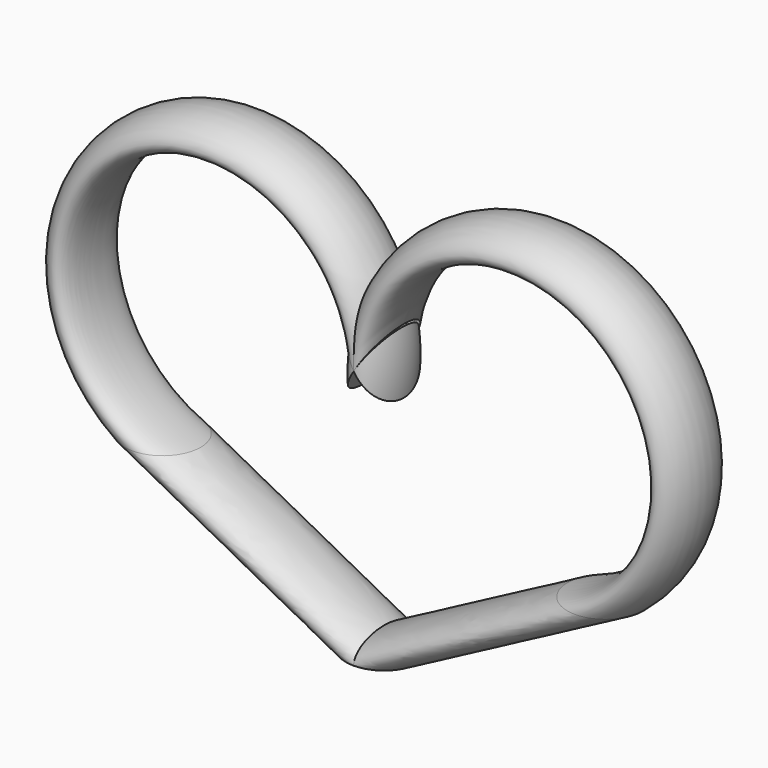
from build123d import *

# Parameters (mm, degrees)
F1_R = 8.6396585437


with BuildPart() as f2:
    # F2: sweep along a path in F0
    with BuildLine(Plane.XZ) as f2_path:
        Line((0, 0), (-50.3327995539, 26.6418438405))
        ThreePointArc((-50.3327995539, 26.6418438405), (-52.8127634615, 85.8746159064), (0, 58.9398145676))
    # F1 (on Top) → F2 (sweep)
    with BuildSketch(Plane.XY):
        Circle(F1_R)
    sweep(path=f2_path.line)

    # F3: F2 across plane


with BuildPart() as f2_1:
    add(f2.part)
    add(f2.part.mirror(Plane.YZ))


solid = f2_1.part
